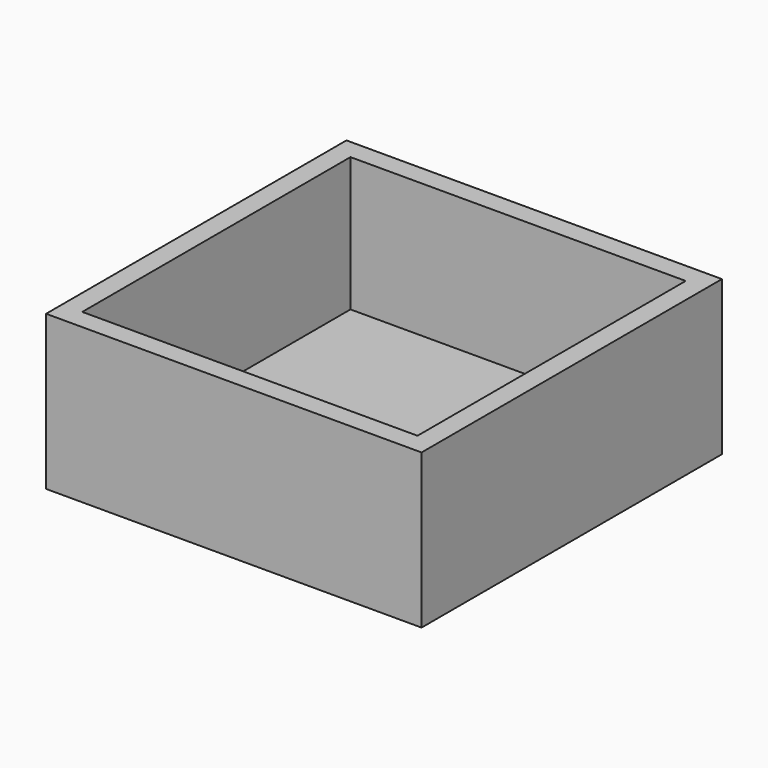
from build123d import *

# Parameters (mm, degrees)
BOX001_W         = 50
BOX001_H         = 50
BOX001_DEPTH     = 20
BOX002_W         = 56
BOX002_H         = 56
BOX002_DEPTH     = 23
EXTRUDE001_DEPTH = 3


with BuildPart() as cube001:
    # Box001 → Box001 (new body)
    with BuildSketch(Plane(origin=(3, 3, 3), x_dir=(1, 0, 0), z_dir=(0, 0, 1))):
        with Locations((25, 25)):
            Rectangle(BOX001_W, BOX001_H)
    extrude(amount=BOX001_DEPTH)


with BuildPart() as obj1:
    # Box002 → Box002 (new body)
    with BuildSketch(Plane.XY):
        with Locations((28, 28)):
            Rectangle(BOX002_W, BOX002_H)
    extrude(amount=BOX002_DEPTH)

    # Cut: cut Cube001
    add(cube001.part, mode=Mode.SUBTRACT)


with BuildPart() as fusion_caixa_end:
    # Sketch002 → Extrude001 (new body)
    with BuildSketch(Plane.XY):
        with BuildLine():
            Line((17.981379, 51.82386), (38.018621, 51.82386))
            Line((38.018621, 51.82386), (32.795895, 71.168476))
            ThreePointArc((32.795895, 71.168476), (28, 74.841274), (23.204105, 71.168476))
            Line((23.204105, 71.168476), (17.981379, 51.82386))
        make_face()
        with BuildLine():
            ThreePointArc((30.625023, 69.873664), (28, 72.498687), (25.374977, 69.873664))
            Line((25.374977, 69.873664), (25.374977, 61.048153))
            ThreePointArc((25.374977, 61.048153), (28, 58.42313), (30.625023, 61.048153))
            Line((30.625023, 69.873664), (30.625023, 61.048153))
        make_face(mode=Mode.SUBTRACT)
    extrude(amount=EXTRUDE001_DEPTH)

    # Fusion002: union obj1
    add(obj1.part)


solid = fusion_caixa_end.part
